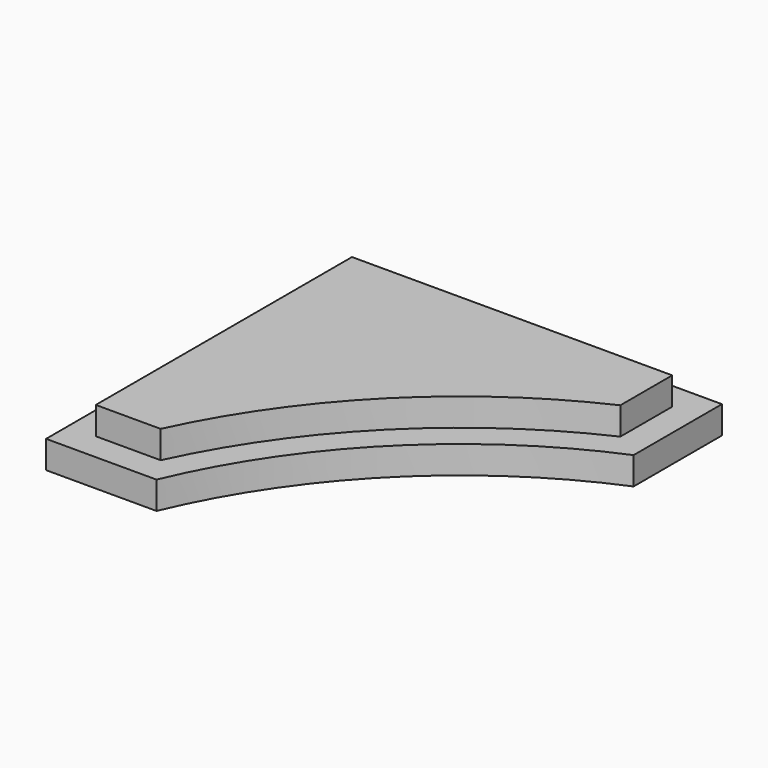
from build123d import *

# Parameters (mm, degrees)
F1_DEPTH = 12.7
F3_DEPTH = 6.35


with BuildPart() as f1:
    # F0 (on Top) → F1 (new body)
    with BuildSketch(Plane.XY):
        with BuildLine():
            Line((-44.3746231037, 130.7346231037), (-130.7346231037, 130.7346231037))
            Line((-130.7346231037, 130.7346231037), (-130.7346231037, 44.3746231037))
            Line((-130.7346231037, 44.3746231037), (-105.3346231037, 44.3746231037))
            ThreePointArc((-105.3346231037, 44.3746231037), (-80.8223050896, 80.8223050896), (-44.3746231037, 105.3346231037))
            Line((-44.3746231037, 105.3346231037), (-44.3746231037, 130.7346231037))
        make_face()
    extrude(amount=F1_DEPTH)

    # F2 (on face) → F3 (cut)
    with BuildSketch(Plane.XY.offset(12.7)):
        with BuildLine():
            Line((-44.3746231037, 130.7346231037), (-130.7346231037, 130.7346231037))
            Line((-130.7346231037, 130.7346231037), (-130.7346231037, 44.3746231037))
            Line((-130.7346231037, 44.3746231037), (-105.3346231037, 44.3746231037))
            ThreePointArc((-105.3346231037, 44.3746231037), (-80.8223050896, 80.8223050896), (-44.3746231037, 105.3346231037))
            Line((-44.3746231037, 105.3346231037), (-44.3746231037, 130.7346231037))
        make_face()
        with BuildLine():
            Line((-124.3846231037, 124.3846231037), (-50.7246231037, 124.3846231037))
            Line((-50.7246231037, 124.3846231037), (-50.7246231037, 109.4650677811))
            ThreePointArc((-50.7246231037, 109.4650677811), (-85.2982218646, 85.2982218646), (-109.4650677811, 50.7246231037))
            Line((-109.4650677811, 50.7246231037), (-124.3846231037, 50.7246231037))
            Line((-124.3846231037, 50.7246231037), (-124.3846231037, 124.3846231037))
        make_face(mode=Mode.SUBTRACT)
    extrude(amount=-F3_DEPTH, mode=Mode.SUBTRACT)


solid = f1.part
